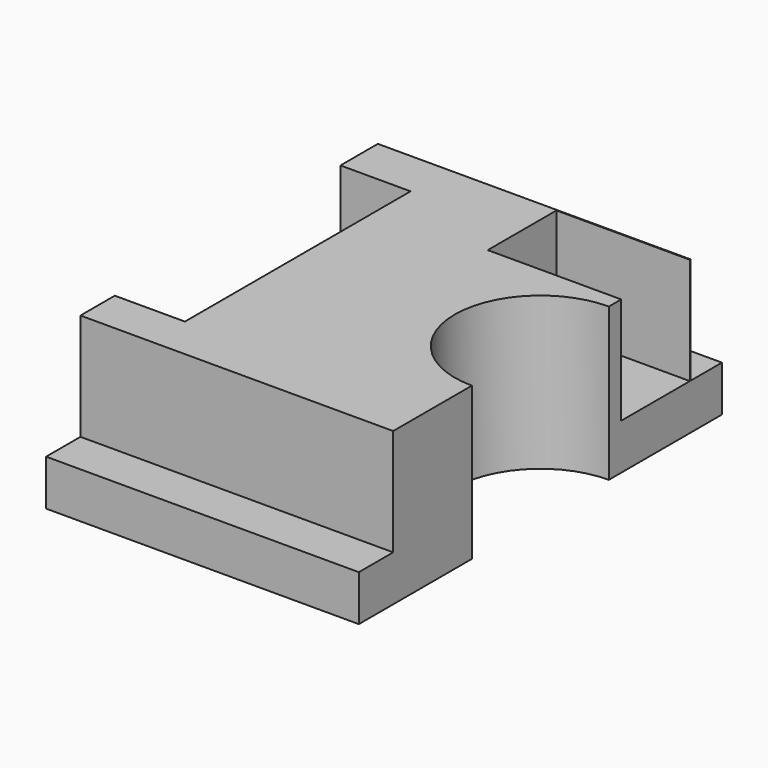
from build123d import *

# Parameters (mm, degrees)
F1_DEPTH = 25.4
F2_W     = 23.3461521566
F2_H     = 46.9620153308
F3_DEPTH = 17.78
F4_W     = 25.4
F4_H     = 7.1507450193
F4_W_2   = 26.6700030029
F5_DEPTH = 17.78
F4_H_2   = 6.5157404274
F6_DEPTH = 17.78
F7_W     = 22.2250013612
F7_H     = 14.2875015736
F8_DEPTH = 17.78


with BuildPart() as f1:
    # F0 (on Top) → F1 (new body)
    with BuildSketch(Plane.XY):
        with BuildLine():
            Line((26.0350015014, 37.782497704), (-26.0350015014, 37.782497704))
            Line((-26.0350015014, 37.782497704), (-26.0350015014, -37.782497704))
            Line((-26.0350015014, -37.782497704), (26.0350015014, -37.782497704))
            Line((26.0350015014, -37.782497704), (26.0350015014, -14.2516041014))
            ThreePointArc((26.0350015014, -14.2516041014), (11.7833974, 0), (26.0350015014, 14.2516041014))
            Line((26.0350015014, 14.2516041014), (26.0350015014, 37.782497704))
        make_face()
    extrude(amount=F1_DEPTH)

    # F2 (on face) → F3 (cut)
    with BuildSketch(Plane.XY.offset(25.4)):
        with Locations((-26.0350015014, 0)):
            Rectangle(F2_W, F2_H)
    extrude(amount=-F3_DEPTH, mode=Mode.SUBTRACT)

    # F4 (on face) → F5 (cut)
    with BuildSketch(Plane.XY.offset(25.4)):
        with Locations((-13.3350015014, -34.2071251944)):
            Rectangle(F4_W, F4_H)
        with Locations((12.7, -34.2071251944)):
            Rectangle(F4_W_2, F4_H)
    extrude(amount=-F5_DEPTH, mode=Mode.SUBTRACT)

    # F4 (on face) → F6 (cut)
    with BuildSketch(Plane.XY.offset(25.4)):
        with Locations((12.7, 34.5246274903)):
            Rectangle(F4_W_2, F4_H_2)
        with Locations((-13.3350015014, 34.5246274903)):
            Rectangle(F4_W, F4_H_2)
    extrude(amount=-F6_DEPTH, mode=Mode.SUBTRACT)

    # F7 (on face) → F8 (cut)
    with BuildSketch(Plane.XY.offset(25.4)):
        with Locations((14.9225008208, 23.9712502807)):
            Rectangle(F7_W, F7_H)
    extrude(amount=-F8_DEPTH, mode=Mode.SUBTRACT)


solid = f1.part
